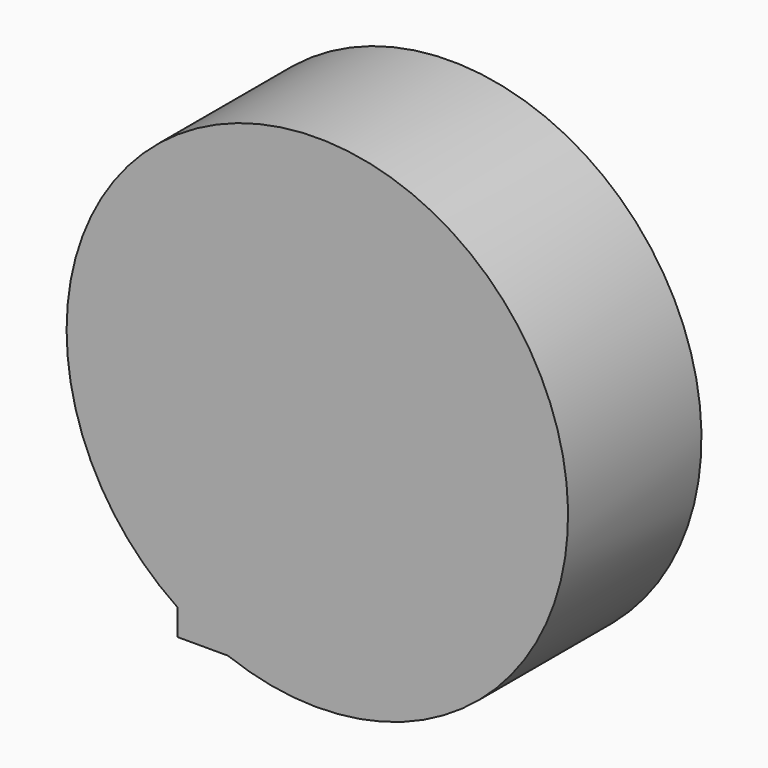
from build123d import *

# Parameters (mm, degrees)
F1_DEPTH = 25.4


with BuildPart() as f1:
    # F0 (on Front) → F1 (new body)
    with BuildSketch(Plane.XZ):
        with BuildLine():
            Line((-21.3073957711, -31.6974997716), (-21.3073957711, 9.9554667249))
            Line((-21.3073957711, 9.9554667249), (8.8920658454, 9.9554667249))
            Line((8.8920658454, 9.9554667249), (8.8920658454, -35.6857292354))
            Line((8.8920658454, -35.6857292354), (-13.6112209318, -35.6857292354))
            ThreePointArc((-13.6112209318, -35.6857292354), (21.6665370761, -31.4531044167), (38.1934105091, 0))
            ThreePointArc((38.1934105091, 0), (-17.9573730366, 33.7085947488), (-21.3073957711, -31.6974997716))
        make_face()
        with BuildLine():
            Line((8.8920658454, 9.9554667249), (-21.3073957711, 9.9554667249))
            Line((-21.3073957711, 9.9554667249), (-21.3073957711, -31.6974997716))
            ThreePointArc((-21.3073957711, -31.6974997716), (-17.5728182622, -33.9106570954), (-13.6112209318, -35.6857292354))
            Line((-13.6112209318, -35.6857292354), (8.8920658454, -35.6857292354))
            Line((8.8920658454, -35.6857292354), (8.8920658454, 9.9554667249))
        make_face()
        with BuildLine():
            ThreePointArc((-13.6112209318, -35.6857292354), (-17.5728182622, -33.9106570954), (-21.3073957711, -31.6974997716))
            Line((-21.3073957711, -31.6974997716), (-21.3073957711, -35.6857292354))
            Line((-21.3073957711, -35.6857292354), (-13.6112209318, -35.6857292354))
        make_face()
    extrude(amount=F1_DEPTH)


solid = f1.part
